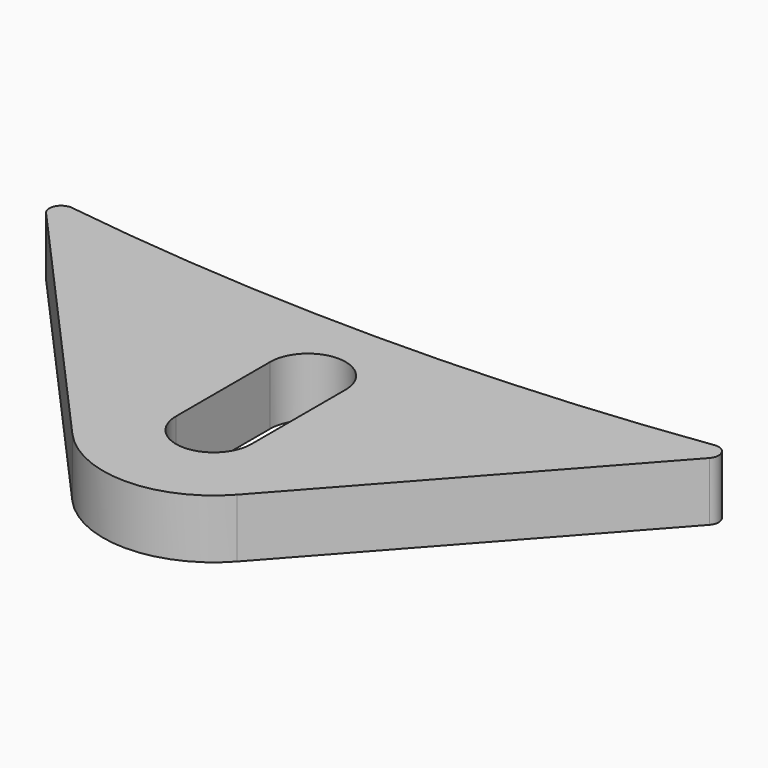
from build123d import *

# Parameters (mm, degrees)
F1_DEPTH = 2.5


with BuildPart() as f1:
    # F0 (on Top) → F1 (new body)
    with BuildSketch(Plane.XY):
        with BuildLine():
            ThreePointArc((13.64249, 9.534957), (0, 8.599999), (-13.64249, 9.534957))
            ThreePointArc((-13.64249, 9.534957), (-14.152097, 9.274517), (-14.083427, 8.706351))
            Line((-14.083427, 8.706351), (-3.5, -3.129614))
            ThreePointArc((-3.5, -3.129614), (0, -4.695155), (3.5, -3.129614))
            Line((3.5, -3.129614), (14.083427, 8.706351))
            ThreePointArc((14.083427, 8.706351), (14.152097, 9.274517), (13.64249, 9.534957))
        make_face()
        with BuildLine():
            ThreePointArc((-1.6, 5), (1e-06, 6.599999), (1.6, 4.999999))
            Line((1.6, 4.999999), (1.6, -1e-06))
            ThreePointArc((1.6, -1e-06), (-1e-06, -1.6), (-1.6, 0))
            Line((-1.6, 0), (-1.6, 5))
        make_face(mode=Mode.SUBTRACT)
    extrude(amount=F1_DEPTH)


solid = f1.part
